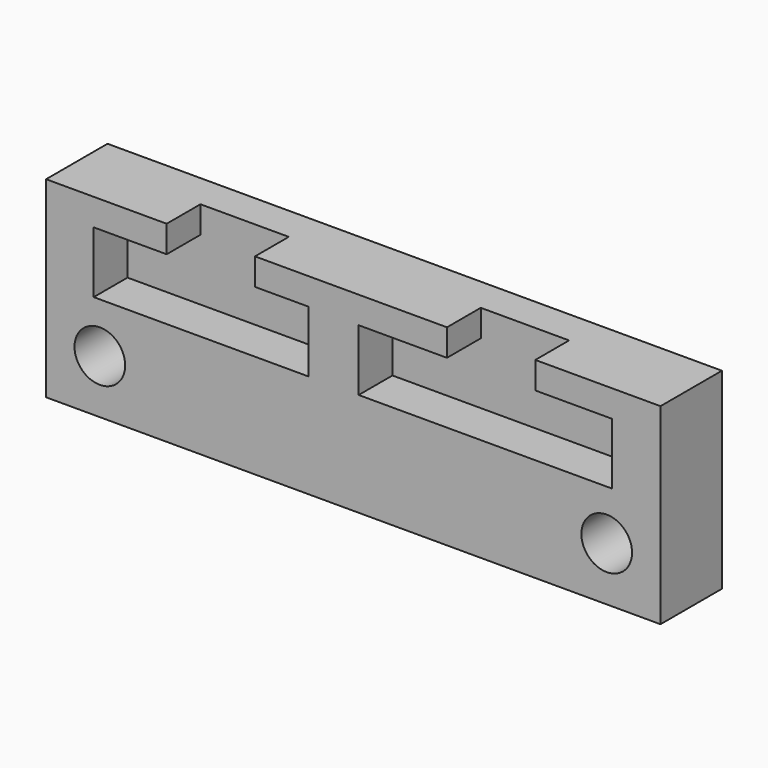
from build123d import *

# Parameters (mm, degrees)
F0_W     = 80
F0_H     = 25
F0_R     = 3.3
F1_DEPTH = 10
F3_DEPTH = 5.5


with BuildPart() as f1:
    # F0 (on Front) → F1 (new body)
    with BuildSketch(Plane.XZ):
        with Locations((40, 12.5)):
            Rectangle(F0_W, F0_H)
        with Locations((7, 7)):
            Circle(F0_R, mode=Mode.SUBTRACT)
        with Locations((73, 7)):
            Circle(F0_R, mode=Mode.SUBTRACT)
    extrude(amount=F1_DEPTH)

    # F2 (on face) → F3 (cut)
    with BuildSketch(Plane.XZ.offset(10)):
        Polygon((15.7, 21.5), (6.2, 21.5), (6.2, 13.5), (34.2, 13.5), (34.2, 21.5), (27.2, 21.5), (27.2, 25), (15.7, 25), align=None)
        Polygon((63.7, 25), (52.2, 25), (52.2, 21.5), (40.7, 21.5), (40.7, 13.5), (73.7, 13.5), (73.7, 21.5), (63.7, 21.5), align=None)
    extrude(amount=-F3_DEPTH, mode=Mode.SUBTRACT)


solid = f1.part
